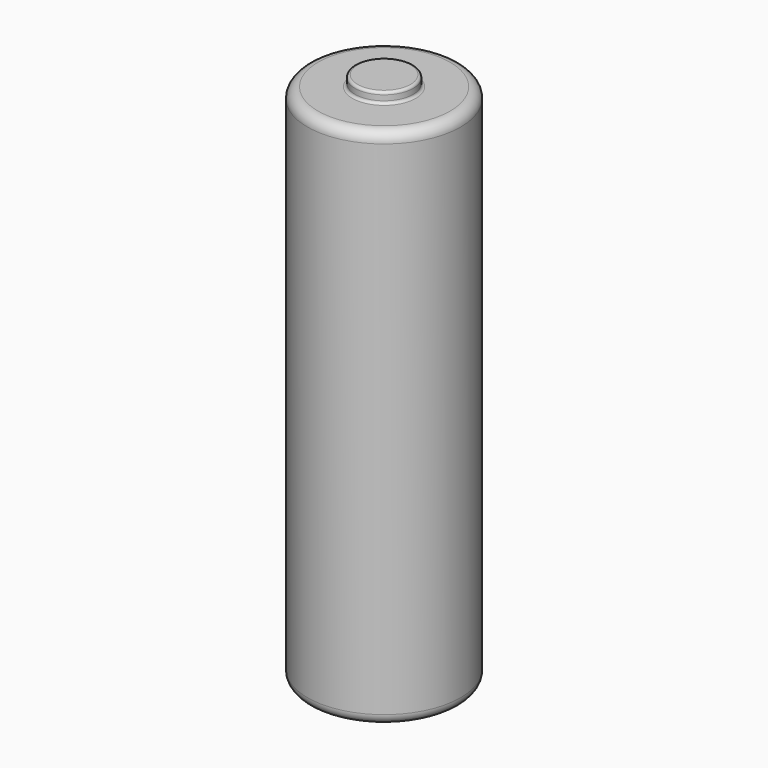
from build123d import *

# Parameters (mm, degrees)
F0_R     = 5.25
F1_DEPTH = 43.7
F2_R     = 1.9
F3_DEPTH = 0.8
F4_R     = 0.25
F5_R     = 1
F6_R     = 7.25
F7_DEPTH = 49.5
F8_R     = 2.75
F9_DEPTH = 1
F10_R    = 0.25
F11_R    = 1


with BuildPart() as f1:
    # F0 (on Top) → F1 (new body)
    with BuildSketch(Plane.XY):
        Circle(F0_R)
    extrude(amount=F1_DEPTH)

    # F2 (on face) → F3 (join)
    with BuildSketch(Plane.XY.offset(43.7)):
        Circle(F2_R)
    extrude(amount=F3_DEPTH)

    # F4
    f4_edges = [f1.edges().sort_by_distance(p)[0] for p in [
        (-1.9, 0, 43.7),
        (-1.9, 0, 44.5),
    ]]
    fillet(f4_edges, radius=F4_R)

    # F5
    f5_edges = [f1.edges().sort_by_distance(p)[0] for p in [
        (-5.25, 0, 43.7),
        (-5.25, 0, 0),
    ]]
    fillet(f5_edges, radius=F5_R)


with BuildPart() as f7:
    # F6 (on Top) → F7 (new body)
    with BuildSketch(Plane.XY):
        Circle(F6_R)
    extrude(amount=F7_DEPTH)

    # F8 (on face) → F9 (join)
    with BuildSketch(Plane.XY.offset(49.5)):
        Circle(F8_R)
    extrude(amount=F9_DEPTH)

    # F10
    f10_edges = [f7.edges().sort_by_distance(p)[0] for p in [
        (-2.75, 0, 50.5),
        (-2.75, 0, 49.5),
    ]]
    fillet(f10_edges, radius=F10_R)

    # F11
    f11_edges = [f7.edges().sort_by_distance(p)[0] for p in [
        (-7.25, 0, 49.5),
        (-7.25, 0, 0),
    ]]
    fillet(f11_edges, radius=F11_R)


solid = Compound([f1.part, f7.part])
